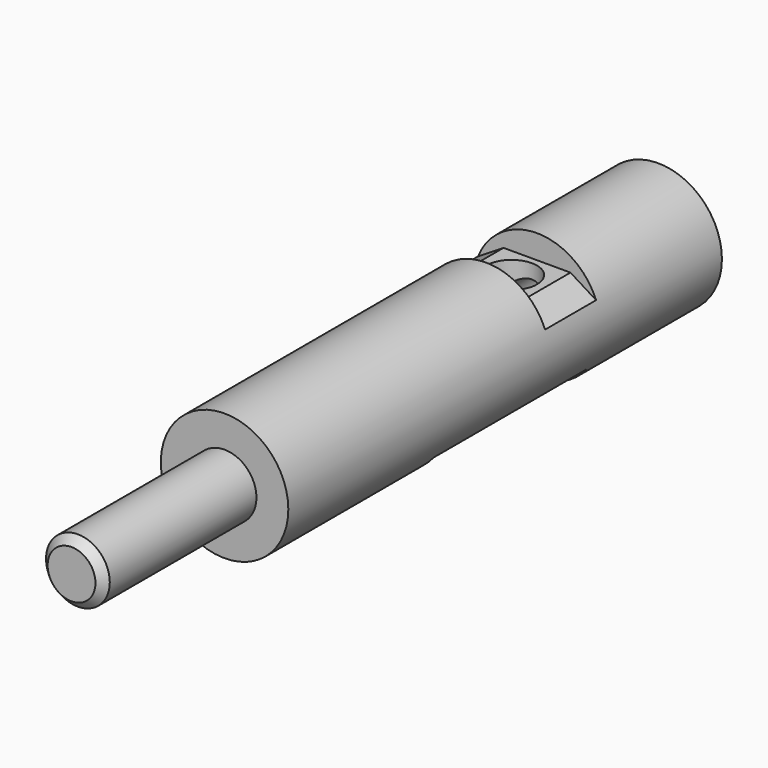
from build123d import *

# Parameters (mm, degrees)
F0_R          = 4
F0_R_2        = 2
F1_DEPTH      = 34
F2_DEPTH      = 46
F4_SIZE       = 0.5
F6_D          = 3.2
F6_DEPTH      = 14
F6_TIP        = 0.9613769904
F8_DEPTH      = 2
F7_W          = 8
F7_H          = 1.5
F9_DEPTH      = 10
F9_DEPTH_BACK = 2
F10_R         = 1.6
F11_DEPTH     = 2.501


with BuildPart() as f1:
    # F0 (on Front) → F1 (new body)
    with BuildSketch(Plane.XZ):
        Circle(F0_R)
        Circle(F0_R_2, mode=Mode.SUBTRACT)
        Circle(F0_R_2)
    extrude(amount=F1_DEPTH)

    # F0 (on Front) → F2 (join)
    with BuildSketch(Plane.XZ):
        Circle(F0_R_2)
    extrude(amount=F2_DEPTH)

    # F4
    f4_edges = [f1.edges().sort_by_distance(p)[0] for p in [
        (-2, -46, 0),
    ]]
    chamfer(f4_edges, length=F4_SIZE)

    # F6
    with Locations(Plane(origin=(0, 0, 0), x_dir=(-1, 0, 0), z_dir=(0, 1, 0))):
        with Locations((0, 0)):
            Hole(F6_D / 2, depth=F6_DEPTH)
            with Locations((0, 0, -(F6_DEPTH + F6_TIP / 2))):  # 118° drill point
                Cone(0, F6_D / 2, F6_TIP, mode=Mode.SUBTRACT)

    # F7 (on offset) → F8 (cut, symmetric)
    with BuildSketch(Plane.XZ.offset(11.5)):
        Polygon((-3.7080992435, 4), (-3.7080992435, 1.5), (-2.1, 2.5), (2.1, 2.5), (3.7080992435, 1.5), (3.7080992435, 4), align=None)
    extrude(amount=F8_DEPTH, both=True, mode=Mode.SUBTRACT)

    # F7 (on offset) → F9 (cut, two sides)
    with BuildSketch(Plane.XZ.offset(11.5)) as f9_sk:
        with Locations((0, -3.25)):
            Rectangle(F7_W, F7_H)
    extrude(amount=F9_DEPTH, mode=Mode.SUBTRACT)
    extrude(f9_sk.sketch, amount=-F9_DEPTH_BACK, mode=Mode.SUBTRACT)

    # F10 (on face) → F11 (cut, through all)
    with BuildSketch(Plane.XY.offset(2.5)):
        with Locations((0, -11.5)):
            Circle(F10_R)
    extrude(amount=-F11_DEPTH, mode=Mode.SUBTRACT)


solid = f1.part
